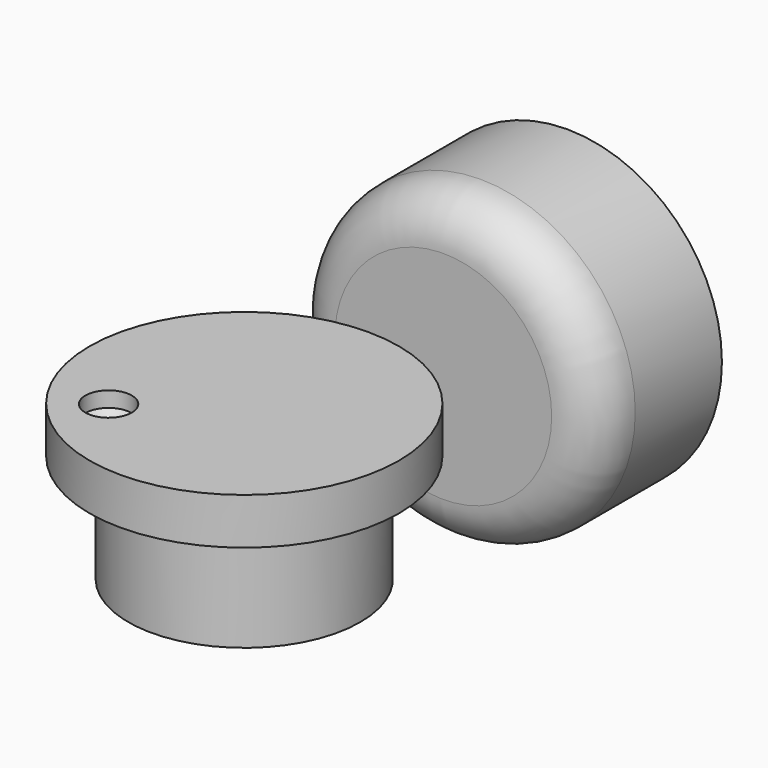
from build123d import *

# Parameters (mm, degrees)
F0_R     = 25.4
F1_DEPTH = 25.4
F2_R     = 7.62
F3_R     = 19.05
F4_DEPTH = 12.7
F5_R     = 25.4
F5_R_2   = 19.05
F6_DEPTH = 7.62
F8_D     = 7.62
F8_DEPTH = 2.54
F8_TIP   = 2.2892789585


with BuildPart() as f1:
    # F0 (on Front) → F1 (new body)
    with BuildSketch(Plane.XZ):
        Circle(F0_R)
    extrude(amount=-F1_DEPTH)

    # F2
    f2_edges = [f1.edges().sort_by_distance(p)[0] for p in [
        (-25.4, 0, 0),
    ]]
    fillet(f2_edges, radius=F2_R)


with BuildPart() as f4:
    # F3 (on Top) → F4 (new body, symmetric)
    with BuildSketch(Plane.XY):
        with Locations((0, -40.8324053059)):
            Circle(F3_R)
    extrude(amount=F4_DEPTH, both=True)

    # F5 (on face) → F6 (join)
    with BuildSketch(Plane.XY.offset(12.7)):
        with Locations((0, -40.8324053059)):
            Circle(F5_R)
        with Locations((0, -40.8324053059)):
            Circle(F5_R_2, mode=Mode.SUBTRACT)
    extrude(amount=-F6_DEPTH)

    # F8
    with Locations(Plane.XY.offset(12.7)):
        with Locations((-13.4725943208, -51.8296062946)):
            Hole(F8_D / 2, depth=F8_DEPTH)
            with Locations((0, 0, -(F8_DEPTH + F8_TIP / 2))):  # 118° drill point
                Cone(0, F8_D / 2, F8_TIP, mode=Mode.SUBTRACT)


solid = Compound([f1.part, f4.part])
